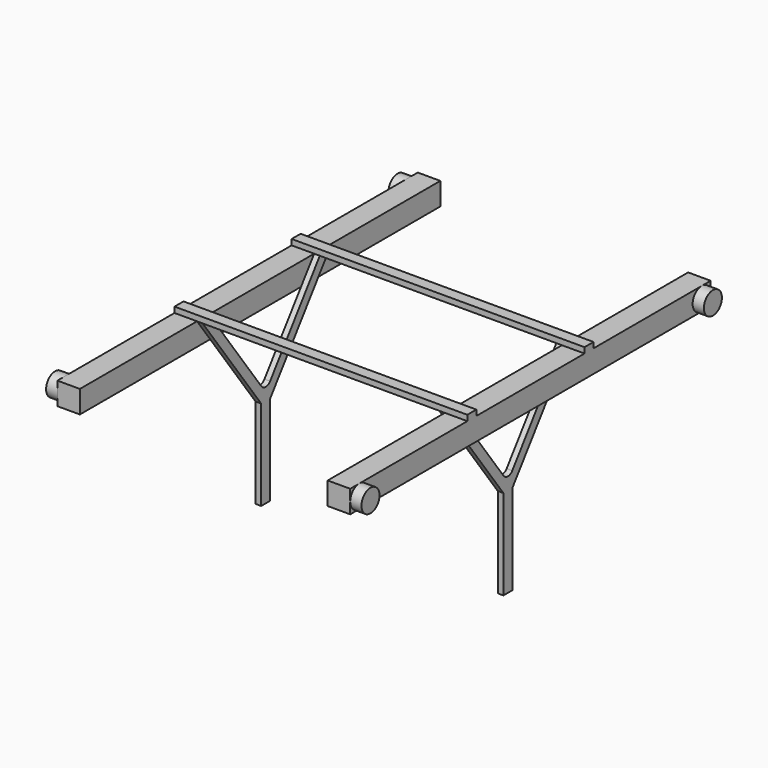
from build123d import *

# Parameters (mm, degrees)
F0_W      = 100
F0_H      = 2000
F1_DEPTH  = 100
F2_W      = 1300
F2_H      = 50
F3_DEPTH  = 25
F4_R      = 50
F5_DEPTH  = 50
F6_R      = 50
F7_DEPTH  = 50
F9_DEPTH  = 25
F11_DEPTH = 25
F12_R     = 30


with BuildPart() as f1:
    # F0 (on Top) → F1 (new body)
    with BuildSketch(Plane.XY):
        with Locations((600, 0)):
            Rectangle(F0_W, F0_H)
        with Locations((-600, 0)):
            Rectangle(F0_W, F0_H)
    extrude(amount=F1_DEPTH)

    # F2 (on face) → F3 (join)
    with BuildSketch(Plane.XY.offset(100)):
        with Locations((0, -325)):
            Rectangle(F2_W, F2_H)
        with Locations((0, 325)):
            Rectangle(F2_W, F2_H)
    extrude(amount=F3_DEPTH)

    # F4 (on face) → F5 (join)
    with BuildSketch(Plane(origin=(-650, 0, 0), x_dir=(0, -1, 0), z_dir=(-1, 0, 0))):
        with Locations((-950, 50)):
            Circle(F4_R)
        with Locations((950, 50)):
            Circle(F4_R)
    extrude(amount=F5_DEPTH)

    # F6 (on face) → F7 (join)
    with BuildSketch(Plane.YZ.offset(650)):
        with Locations((-950, 50)):
            Circle(F6_R)
        with Locations((950, 50)):
            Circle(F6_R)
    extrude(amount=F7_DEPTH)

    # F8 (on face) → F9 (join)
    with BuildSketch(Plane.YZ.offset(-550)):
        Polygon((-300, 100), (-350, 100), (-25, -345.714286), (-25, -745.714286), (25, -745.714286), (25, -345.714286), (350, 100), (300, 100), (0, -311.428571), align=None)
    extrude(amount=F9_DEPTH)

    # F10 (on face) → F11 (join)
    with BuildSketch(Plane(origin=(550, 0, 0), x_dir=(0, -1, 0), z_dir=(-1, 0, 0))):
        Polygon((25, -345.714286), (350, 100), (300, 100), (0, -311.428571), (-300, 100), (-350, 100), (-25, -345.714286), (-25, -745.714286), (25, -745.714286), align=None)
    extrude(amount=F11_DEPTH)

    # F12
    f12_edges = [f1.edges().sort_by_distance(p)[0] for p in [
        (-537.5, 0, -311.428571),
        (537.5, 0, -311.428571),
    ]]
    fillet(f12_edges, radius=F12_R)


solid = f1.part
